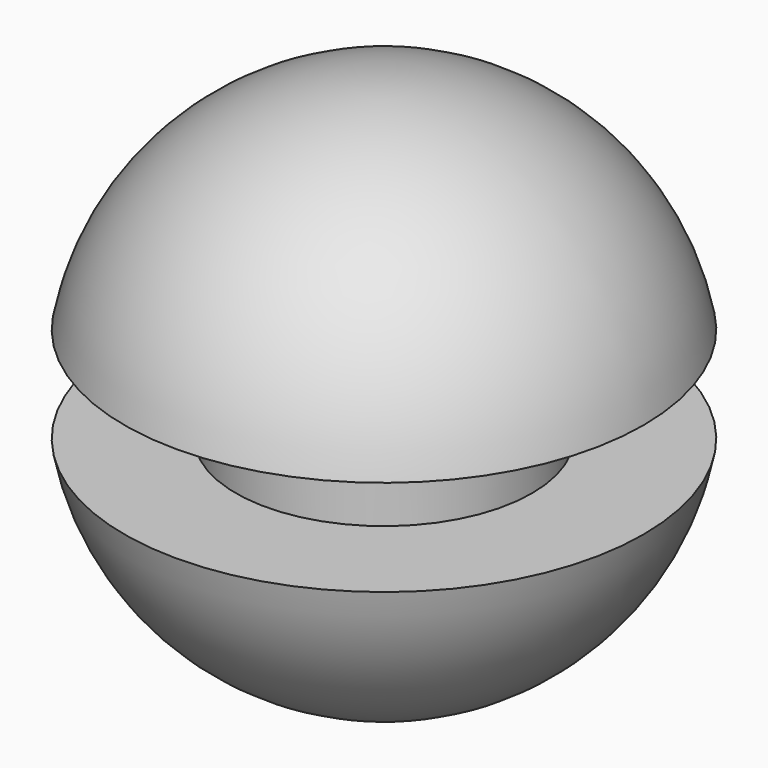
from build123d import *

# Parameters (mm, degrees)
F2_W = 28.595984
F2_H = 17.4318


with BuildPart() as f1:
    # F0 (on Front) → F1 (revolve)
    with BuildSketch(Plane.XZ):
        with BuildLine():
            Line((0, 47.8409), (0, -47.8409))
            ThreePointArc((0, -47.8409), (47.8409, 0), (0, 47.8409))
        make_face()
    revolve(axis=Axis((0, 0, 0), (0, 0, -1)))

    # F2 (on Front) → F3 (revolve, cut)
    with BuildSketch(Plane.XZ):
        with Locations((41.131213, 0)):
            Rectangle(F2_W, F2_H)
    revolve(axis=Axis((0, 0, 0.293795), (0, 0, -1)), mode=Mode.SUBTRACT)


solid = f1.part
